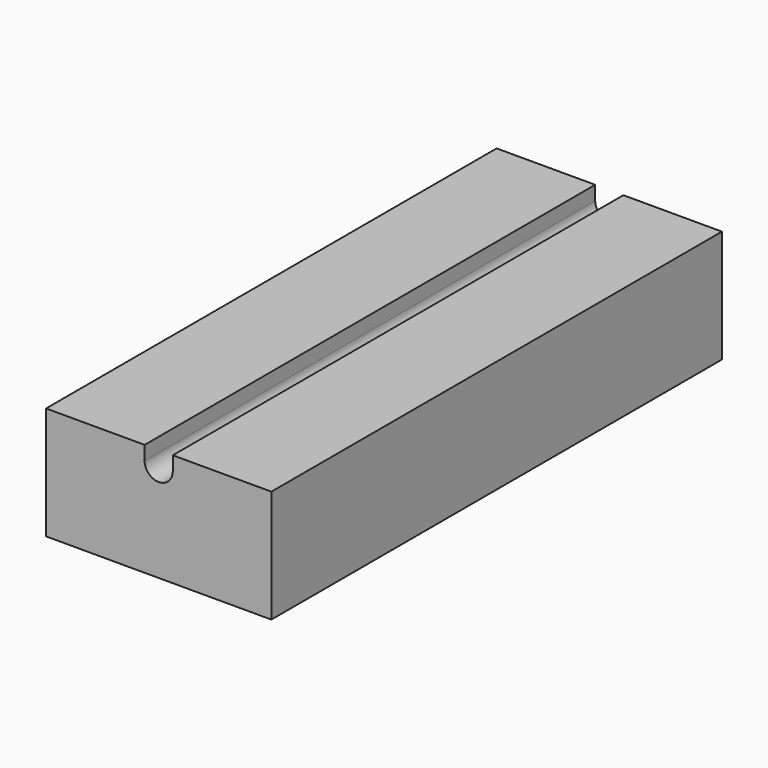
from build123d import *

# Parameters (mm, degrees)
F0_W     = 40
F0_H     = 100
F1_DEPTH = 20
F3_DEPTH = 100


with BuildPart() as f1:
    # F0 (on Top) → F1 (new body)
    with BuildSketch(Plane.XY):
        with Locations((0, 40.365882)):
            Rectangle(F0_W, F0_H)
    extrude(amount=-F1_DEPTH)

    # F2 (on face) → F3 (cut, through all)
    with BuildSketch(Plane.XZ.offset(9.634118)):
        with BuildLine():
            ThreePointArc((-2.5, -2.5), (0, -5), (2.5, -2.5))
            ThreePointArc((2.5, -2.5), (0, 0), (-2.5, -2.5))
        make_face()
        with BuildLine():
            ThreePointArc((0, 0), (1.767767, -0.732233), (2.5, -2.5))
            Line((2.5, -2.5), (2.5, 0))
            Line((2.5, 0), (0, 0))
        make_face()
        with BuildLine():
            Line((-2.5, 0), (-2.5, -2.5))
            ThreePointArc((-2.5, -2.5), (-1.767767, -0.732233), (0, 0))
            Line((0, 0), (-2.5, 0))
        make_face()
    extrude(amount=-F3_DEPTH, mode=Mode.SUBTRACT)


solid = f1.part
